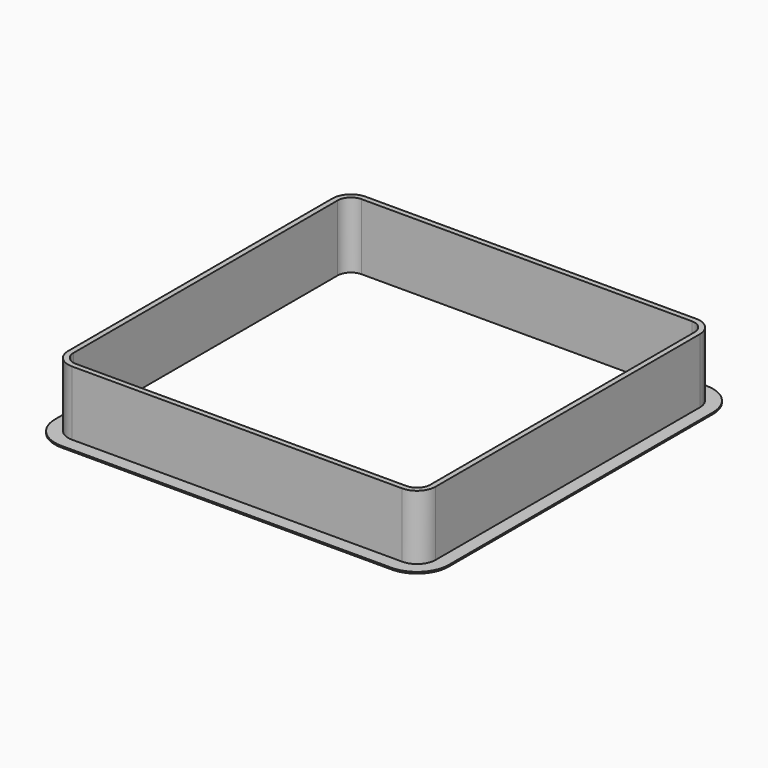
from build123d import *

# Parameters (mm, degrees)
F1_DEPTH = 25
F2_DEPTH = 0.6


with BuildPart() as f1:
    # F0 (on Top) → F1 (new body)
    with BuildSketch(Plane.XY):
        with BuildLine():
            Line((69.5, -62.5), (69.5, 62.5))
            ThreePointArc((69.5, 62.5), (67.449747, 67.449747), (62.5, 69.5))
            Line((62.5, 69.5), (-62.5, 69.5))
            ThreePointArc((-62.5, 69.5), (-67.449747, 67.449747), (-69.5, 62.5))
            Line((-69.5, 62.5), (-69.5, -62.5))
            ThreePointArc((-69.5, -62.5), (-67.449747, -67.449747), (-62.5, -69.5))
            Line((-62.5, -69.5), (62.5, -69.5))
            ThreePointArc((62.5, -69.5), (67.449747, -67.449747), (69.5, -62.5))
        make_face()
        with BuildLine():
            Line((-62.5, 67.5), (62.5, 67.5))
            ThreePointArc((62.5, 67.5), (66.035534, 66.035534), (67.5, 62.5))
            Line((67.5, 62.5), (67.5, -62.5))
            ThreePointArc((67.5, -62.5), (66.035534, -66.035534), (62.5, -67.5))
            Line((62.5, -67.5), (-62.5, -67.5))
            ThreePointArc((-62.5, -67.5), (-66.035534, -66.035534), (-67.5, -62.5))
            Line((-67.5, -62.5), (-67.5, 62.5))
            ThreePointArc((-67.5, 62.5), (-66.035534, 66.035534), (-62.5, 67.5))
        make_face(mode=Mode.SUBTRACT)
    extrude(amount=F1_DEPTH)

    # F0 (on Top) → F2 (join)
    with BuildSketch(Plane.XY):
        with BuildLine():
            Line((74.5, -62.5), (74.5, 62.5))
            ThreePointArc((74.5, 62.5), (70.985281, 70.985281), (62.5, 74.5))
            Line((62.5, 74.5), (-62.5, 74.5))
            ThreePointArc((-62.5, 74.5), (-70.985281, 70.985281), (-74.5, 62.5))
            Line((-74.5, 62.5), (-74.5, -62.5))
            ThreePointArc((-74.5, -62.5), (-70.985281, -70.985281), (-62.5, -74.5))
            Line((-62.5, -74.5), (62.5, -74.5))
            ThreePointArc((62.5, -74.5), (70.985281, -70.985281), (74.5, -62.5))
        make_face()
        with BuildLine():
            ThreePointArc((62.5, 69.5), (67.449747, 67.449747), (69.5, 62.5))
            Line((69.5, 62.5), (69.5, -62.5))
            ThreePointArc((69.5, -62.5), (67.449747, -67.449747), (62.5, -69.5))
            Line((62.5, -69.5), (-62.5, -69.5))
            ThreePointArc((-62.5, -69.5), (-67.449747, -67.449747), (-69.5, -62.5))
            Line((-69.5, -62.5), (-69.5, 62.5))
            ThreePointArc((-69.5, 62.5), (-67.449747, 67.449747), (-62.5, 69.5))
            Line((-62.5, 69.5), (62.5, 69.5))
        make_face(mode=Mode.SUBTRACT)
    extrude(amount=F2_DEPTH)


solid = f1.part
